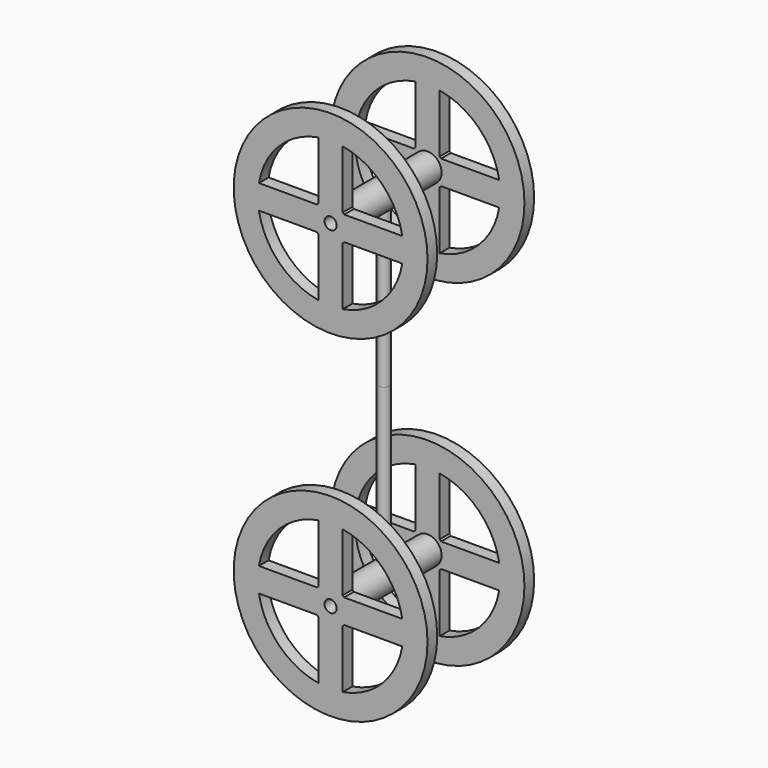
from build123d import *

# Parameters (mm, degrees)
F0_R     = 40
F1_DEPTH = 2.5
F2_R     = 5.8113961387
F2_R_2   = 3.4738590418
F3_DEPTH = 25


with BuildPart() as f1:
    # F0 (on Front) → F1 (new body, symmetric)
    with BuildSketch(Plane.XZ):
        Circle(F0_R)
        with BuildLine():
            Line((-29.5803989155, -5), (-5.5901699437, -5))
            ThreePointArc((-5.5901699437, -5), (-5.3033008589, -5.3033008589), (-5, -5.5901699437))
            Line((-5, -5.5901699437), (-5, -29.5803989155))
            ThreePointArc((-5, -29.5803989155), (-21.2132034356, -21.2132034356), (-29.5803989155, -5))
        make_face(mode=Mode.SUBTRACT)
        with BuildLine():
            Line((5, -29.5803989155), (5, -5.5901699437))
            ThreePointArc((5, -5.5901699437), (5.3033008589, -5.3033008589), (5.5901699437, -5))
            Line((5.5901699437, -5), (29.5803989155, -5))
            ThreePointArc((29.5803989155, -5), (21.2132034356, -21.2132034356), (5, -29.5803989155))
        make_face(mode=Mode.SUBTRACT)
        with BuildLine():
            Line((-5, 29.5803989155), (-5, 5.5901699437))
            ThreePointArc((-5, 5.5901699437), (-5.3033008589, 5.3033008589), (-5.5901699437, 5))
            Line((-5.5901699437, 5), (-29.5803989155, 5))
            ThreePointArc((-29.5803989155, 5), (-21.2132034356, 21.2132034356), (-5, 29.5803989155))
        make_face(mode=Mode.SUBTRACT)
        with BuildLine():
            ThreePointArc((0, -2.5), (-1.767766953, 1.767766953), (2.5, 0))
            ThreePointArc((2.5, 0), (1.767766953, -1.767766953), (0, -2.5))
        make_face(mode=Mode.SUBTRACT)
        with BuildLine():
            ThreePointArc((5, 29.5803989155), (21.2132034356, 21.2132034356), (29.5803989155, 5))
            Line((29.5803989155, 5), (5.5901699437, 5))
            ThreePointArc((5.5901699437, 5), (5.3033008589, 5.3033008589), (5, 5.5901699437))
            Line((5, 5.5901699437), (5, 29.5803989155))
        make_face(mode=Mode.SUBTRACT)
    extrude(amount=F1_DEPTH, both=True)

    # F2 (on Front) → F3 (join)
    with BuildSketch(Plane.XZ):
        Circle(F2_R)
        Circle(F2_R_2, mode=Mode.SUBTRACT)
    extrude(amount=F3_DEPTH)

    # F4: F1 across face


with BuildPart() as f1_1:
    add(f1.part)
    add(f1.part.mirror(Plane.XZ.offset(25)))

    # F6 (on offset) → F7 (revolve)
    with BuildSketch(Plane.XZ.offset(25)):
        with BuildLine():
            Line((0, -2.6413043961), (0, -69.5543512702))
            Line((0, -69.5543512702), (2.3478262592, -69.5543512702))
            Line((2.3478262592, -69.5543512702), (2.3478262592, -2.6413043961))
            Line((2.3478262592, -2.6413043961), (2.3478262592, -1.2100416395))
            ThreePointArc((2.3478262592, -1.2100416395), (1.3748455569, -2.2552801616), (0, -2.6413043961))
        make_face()
    revolve(axis=Axis((0, -25, -36.0978278331), (0, 0, -1)))

    # F8: F1 across face


with BuildPart() as f1_2:
    add(f1_1.part)
    add(f1_1.part.mirror(Plane(origin=(0, -25, -69.5543512702), x_dir=(1, 0, 0), z_dir=(0, 0, -1))))


solid = f1_2.part
